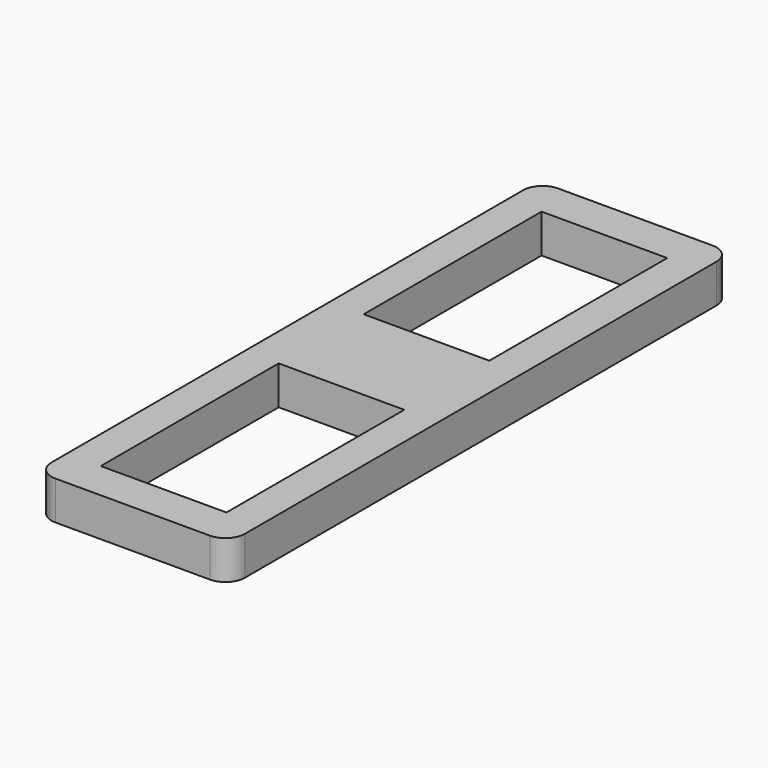
from build123d import *

# Parameters (mm, degrees)
F0_W     = 20
F0_H     = 65
F0_W_2   = 13
F0_H_2   = 23
F1_DEPTH = 4
F2_R     = 2


with BuildPart() as f1:
    # F0 (on Top) → F1 (new body)
    with BuildSketch(Plane.XY):
        Rectangle(F0_W, F0_H)
        with Locations((0, -17)):
            Rectangle(F0_W_2, F0_H_2, mode=Mode.SUBTRACT)
        with Locations((0, 17)):
            Rectangle(F0_W_2, F0_H_2, mode=Mode.SUBTRACT)
    extrude(amount=F1_DEPTH)

    # F2
    f2_edges = [f1.edges().sort_by_distance(p)[0] for p in [
        (-10, -32.5, 2),
        (10, -32.5, 2),
        (-10, 32.5, 2),
        (10, 32.5, 2),
    ]]
    fillet(f2_edges, radius=F2_R)


solid = f1.part
